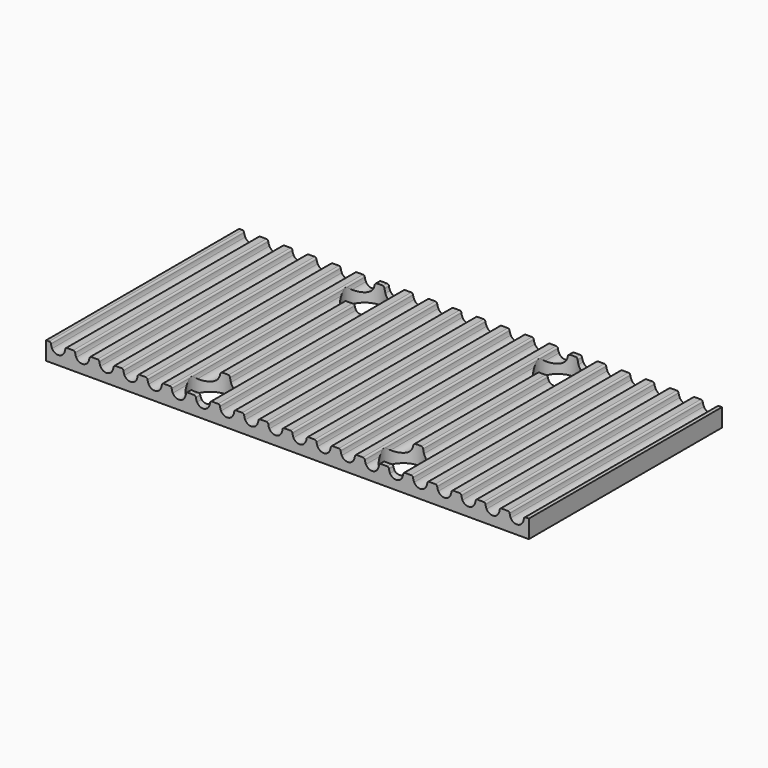
from build123d import *

# Parameters (mm, degrees)
SKETCH024_W     = 40
SKETCH024_H     = 20
PAD003_DEPTH    = 1.5
POCKET017_DEPTH = 20
SKETCH027_R     = 1.6
POCKET018_DEPTH = 1.5


with BuildPart() as part:
    # Sketch024 → Pad003 (new body)
    with BuildSketch(Plane.XY):
        Rectangle(SKETCH024_W, SKETCH024_H)
    extrude(amount=PAD003_DEPTH)

    # Sketch025 (on Face2 of Pad003) → Pocket017 (cut)
    with BuildSketch(Plane.XZ.offset(10)):
        with BuildLine():
            ThreePointArc((-19.591535, 1.370149), (-19.64149, 1.462966), (-19.740176, 1.5))
            Line((-19.740176, 1.5), (-18.259824, 1.5))
            ThreePointArc((-18.259824, 1.5), (-18.358918, 1.462607), (-18.408607, 1.36907))
            ThreePointArc((-18.500975, 1.062099), (-18.44241, 1.211859), (-18.408607, 1.36907))
            ThreePointArc((-19.498919, 1.061881), (-18.999879, 0.750058), (-18.500975, 1.062099))
            ThreePointArc((-19.591535, 1.370149), (-19.557712, 1.212264), (-19.498919, 1.061881))
        make_face()
        with BuildLine():
            ThreePointArc((-17.591536, 1.370149), (-17.64149, 1.462966), (-17.740176, 1.5))
            Line((-17.740176, 1.5), (-16.259824, 1.5))
            ThreePointArc((-16.259824, 1.5), (-16.358919, 1.462607), (-16.408607, 1.36907))
            ThreePointArc((-16.500975, 1.062099), (-16.44241, 1.211859), (-16.408607, 1.36907))
            ThreePointArc((-17.498919, 1.061881), (-16.999879, 0.750058), (-16.500975, 1.062099))
            ThreePointArc((-17.591536, 1.370149), (-17.557712, 1.212264), (-17.498919, 1.061881))
        make_face()
        with BuildLine():
            ThreePointArc((-15.591535, 1.37015), (-15.64149, 1.462967), (-15.740176, 1.5))
            Line((-15.740176, 1.5), (-14.259824, 1.5))
            ThreePointArc((-14.259824, 1.5), (-14.358919, 1.462607), (-14.408607, 1.36907))
            ThreePointArc((-14.500975, 1.062099), (-14.44241, 1.211859), (-14.408607, 1.36907))
            ThreePointArc((-15.498919, 1.061881), (-14.999879, 0.750058), (-14.500975, 1.062099))
            ThreePointArc((-15.591535, 1.37015), (-15.557712, 1.212264), (-15.498919, 1.061881))
        make_face()
        with BuildLine():
            ThreePointArc((-13.591535, 1.370149), (-13.641489, 1.462966), (-13.740175, 1.5))
            Line((-13.740175, 1.5), (-12.259823, 1.5))
            ThreePointArc((-12.259823, 1.5), (-12.358918, 1.462607), (-12.408606, 1.36907))
            ThreePointArc((-12.500974, 1.062099), (-12.44241, 1.211859), (-12.408606, 1.36907))
            ThreePointArc((-13.498918, 1.061881), (-12.999878, 0.750058), (-12.500974, 1.062099))
            ThreePointArc((-13.591535, 1.370149), (-13.557711, 1.212264), (-13.498918, 1.061881))
        make_face()
        with BuildLine():
            ThreePointArc((-11.591535, 1.370149), (-11.641489, 1.462966), (-11.740175, 1.5))
            Line((-11.740175, 1.5), (-10.259823, 1.5))
            ThreePointArc((-10.259823, 1.5), (-10.358918, 1.462607), (-10.408606, 1.36907))
            ThreePointArc((-10.500975, 1.062099), (-10.44241, 1.211859), (-10.408606, 1.36907))
            ThreePointArc((-11.498918, 1.061881), (-10.999878, 0.750058), (-10.500975, 1.062099))
            ThreePointArc((-11.591535, 1.370149), (-11.557711, 1.212264), (-11.498918, 1.061881))
        make_face()
        with BuildLine():
            ThreePointArc((-9.591535, 1.370149), (-9.64149, 1.462966), (-9.740176, 1.5))
            Line((-9.740176, 1.5), (-8.259824, 1.5))
            ThreePointArc((-8.259824, 1.5), (-8.358919, 1.462606), (-8.408607, 1.36907))
            ThreePointArc((-8.500975, 1.062098), (-8.44241, 1.211859), (-8.408607, 1.36907))
            ThreePointArc((-9.498919, 1.06188), (-8.999879, 0.750057), (-8.500975, 1.062098))
            ThreePointArc((-9.591535, 1.370149), (-9.557712, 1.212264), (-9.498919, 1.06188))
        make_face()
        with BuildLine():
            ThreePointArc((-7.591535, 1.37015), (-7.641489, 1.462967), (-7.740175, 1.5))
            Line((-7.740175, 1.5), (-6.259824, 1.5))
            ThreePointArc((-6.259824, 1.5), (-6.358919, 1.462607), (-6.408607, 1.36907))
            ThreePointArc((-6.500975, 1.062099), (-6.44241, 1.211859), (-6.408607, 1.36907))
            ThreePointArc((-7.498918, 1.061881), (-6.999878, 0.750058), (-6.500975, 1.062099))
            ThreePointArc((-7.591535, 1.37015), (-7.557711, 1.212264), (-7.498918, 1.061881))
        make_face()
        with BuildLine():
            ThreePointArc((-5.591535, 1.370149), (-5.64149, 1.462966), (-5.740176, 1.5))
            Line((-5.740176, 1.5), (-4.259824, 1.5))
            ThreePointArc((-4.259824, 1.5), (-4.358919, 1.462607), (-4.408607, 1.36907))
            ThreePointArc((-4.500975, 1.062099), (-4.44241, 1.211859), (-4.408607, 1.36907))
            ThreePointArc((-5.498919, 1.061881), (-4.999879, 0.750058), (-4.500975, 1.062099))
            ThreePointArc((-5.591535, 1.370149), (-5.557711, 1.212264), (-5.498919, 1.061881))
        make_face()
        with BuildLine():
            ThreePointArc((-3.591535, 1.370149), (-3.64149, 1.462966), (-3.740176, 1.5))
            Line((-3.740176, 1.5), (-2.259824, 1.5))
            ThreePointArc((-2.259824, 1.5), (-2.358919, 1.462607), (-2.408607, 1.36907))
            ThreePointArc((-2.500975, 1.062099), (-2.44241, 1.211859), (-2.408607, 1.36907))
            ThreePointArc((-3.498919, 1.061881), (-2.999879, 0.750058), (-2.500975, 1.062099))
            ThreePointArc((-3.591535, 1.370149), (-3.557711, 1.212264), (-3.498919, 1.061881))
        make_face()
        with BuildLine():
            ThreePointArc((-1.591535, 1.370149), (-1.64149, 1.462966), (-1.740176, 1.5))
            Line((-1.740176, 1.5), (-0.259824, 1.5))
            ThreePointArc((-0.259824, 1.5), (-0.358919, 1.462606), (-0.408607, 1.36907))
            ThreePointArc((-0.500975, 1.062098), (-0.44241, 1.211859), (-0.408607, 1.36907))
            ThreePointArc((-1.498919, 1.06188), (-0.999879, 0.750057), (-0.500975, 1.062098))
            ThreePointArc((-1.591535, 1.370149), (-1.557711, 1.212264), (-1.498919, 1.06188))
        make_face()
        with BuildLine():
            ThreePointArc((0.408465, 1.370149), (0.35851, 1.462966), (0.259824, 1.5))
            Line((0.259824, 1.5), (1.740176, 1.5))
            ThreePointArc((1.740176, 1.5), (1.641081, 1.462607), (1.591393, 1.36907))
            ThreePointArc((1.499025, 1.062099), (1.55759, 1.211859), (1.591393, 1.36907))
            ThreePointArc((0.501081, 1.061881), (1.000121, 0.750058), (1.499025, 1.062099))
            ThreePointArc((0.408465, 1.370149), (0.442288, 1.212264), (0.501081, 1.061881))
        make_face()
        with BuildLine():
            ThreePointArc((2.408465, 1.370149), (2.358511, 1.462966), (2.259825, 1.5))
            Line((2.259825, 1.5), (3.740176, 1.5))
            ThreePointArc((3.740176, 1.5), (3.641081, 1.462607), (3.591393, 1.36907))
            ThreePointArc((3.499025, 1.062099), (3.55759, 1.211859), (3.591393, 1.36907))
            ThreePointArc((2.501082, 1.061881), (3.000122, 0.750058), (3.499025, 1.062099))
            ThreePointArc((2.408465, 1.370149), (2.442289, 1.212264), (2.501082, 1.061881))
        make_face()
        with BuildLine():
            ThreePointArc((4.408465, 1.370149), (4.35851, 1.462966), (4.259824, 1.5))
            Line((4.259824, 1.5), (5.740176, 1.5))
            ThreePointArc((5.740176, 1.5), (5.641081, 1.462606), (5.591393, 1.36907))
            ThreePointArc((5.499025, 1.062098), (5.55759, 1.211859), (5.591393, 1.36907))
            ThreePointArc((4.501081, 1.06188), (5.000121, 0.750057), (5.499025, 1.062098))
            ThreePointArc((4.408465, 1.370149), (4.442288, 1.212264), (4.501081, 1.06188))
        make_face()
        with BuildLine():
            ThreePointArc((6.408465, 1.370149), (6.35851, 1.462966), (6.259824, 1.5))
            Line((6.259824, 1.5), (7.740176, 1.5))
            ThreePointArc((7.740176, 1.5), (7.641081, 1.462607), (7.591393, 1.36907))
            ThreePointArc((7.499025, 1.062099), (7.55759, 1.211859), (7.591393, 1.36907))
            ThreePointArc((6.501081, 1.061881), (7.000121, 0.750058), (7.499025, 1.062099))
            ThreePointArc((6.408465, 1.370149), (6.442288, 1.212264), (6.501081, 1.061881))
        make_face()
        with BuildLine():
            ThreePointArc((8.408466, 1.370149), (8.358511, 1.462966), (8.259825, 1.5))
            Line((8.259825, 1.5), (9.740177, 1.5))
            ThreePointArc((9.740177, 1.5), (9.641082, 1.462606), (9.591394, 1.36907))
            ThreePointArc((9.499026, 1.062098), (9.557591, 1.211859), (9.591394, 1.36907))
            ThreePointArc((8.501082, 1.06188), (9.000122, 0.750057), (9.499026, 1.062098))
            ThreePointArc((8.408466, 1.370149), (8.442289, 1.212264), (8.501082, 1.06188))
        make_face()
        with BuildLine():
            ThreePointArc((10.408465, 1.370149), (10.358511, 1.462966), (10.259825, 1.5))
            Line((10.259825, 1.5), (11.740176, 1.5))
            ThreePointArc((11.740176, 1.5), (11.641081, 1.462607), (11.591393, 1.36907))
            ThreePointArc((11.499025, 1.062099), (11.55759, 1.211859), (11.591393, 1.36907))
            ThreePointArc((10.501082, 1.061881), (11.000122, 0.750058), (11.499025, 1.062099))
            ThreePointArc((10.408465, 1.370149), (10.442289, 1.212264), (10.501082, 1.061881))
        make_face()
        with BuildLine():
            ThreePointArc((12.408465, 1.370149), (12.35851, 1.462966), (12.259824, 1.5))
            Line((12.259824, 1.5), (13.740176, 1.5))
            ThreePointArc((13.740176, 1.5), (13.641081, 1.462607), (13.591393, 1.36907))
            ThreePointArc((13.499025, 1.062099), (13.55759, 1.211859), (13.591393, 1.36907))
            ThreePointArc((12.501081, 1.061881), (13.000121, 0.750058), (13.499025, 1.062099))
            ThreePointArc((12.408465, 1.370149), (12.442289, 1.212264), (12.501081, 1.061881))
        make_face()
        with BuildLine():
            ThreePointArc((14.408466, 1.37015), (14.358511, 1.462967), (14.259825, 1.5))
            Line((14.259825, 1.5), (15.740177, 1.5))
            ThreePointArc((15.740177, 1.5), (15.641082, 1.462607), (15.591394, 1.36907))
            ThreePointArc((15.499026, 1.062099), (15.557591, 1.211859), (15.591394, 1.36907))
            ThreePointArc((14.501082, 1.061881), (15.000122, 0.750058), (15.499026, 1.062099))
            ThreePointArc((14.408466, 1.37015), (14.442289, 1.212264), (14.501082, 1.061881))
        make_face()
        with BuildLine():
            ThreePointArc((16.408465, 1.370149), (16.358511, 1.462966), (16.259825, 1.5))
            Line((16.259825, 1.5), (17.740177, 1.5))
            ThreePointArc((17.740177, 1.5), (17.641082, 1.462607), (17.591394, 1.36907))
            ThreePointArc((17.499026, 1.062099), (17.557591, 1.211859), (17.591394, 1.36907))
            ThreePointArc((16.501082, 1.061881), (17.000122, 0.750058), (17.499026, 1.062099))
            ThreePointArc((16.408465, 1.370149), (16.442289, 1.212264), (16.501082, 1.061881))
        make_face()
        with BuildLine():
            ThreePointArc((18.408465, 1.370149), (18.358511, 1.462966), (18.259825, 1.5))
            Line((18.259825, 1.5), (19.740177, 1.5))
            ThreePointArc((19.740177, 1.5), (19.641082, 1.462607), (19.591394, 1.36907))
            ThreePointArc((19.499026, 1.062099), (19.557591, 1.211859), (19.591394, 1.36907))
            ThreePointArc((18.501082, 1.061881), (19.000122, 0.750058), (19.499026, 1.062099))
            ThreePointArc((18.408465, 1.370149), (18.442289, 1.212264), (18.501082, 1.061881))
        make_face()
    extrude(amount=-POCKET017_DEPTH, mode=Mode.SUBTRACT)

    # Sketch027 (on Face4 of Pocket017) → Pocket018 (cut)
    with BuildSketch(Plane(origin=(0, 0, 0), x_dir=(1, 0, 0), z_dir=(0, 0, -1))):
        with Locations((-8, -8)):
            Circle(SKETCH027_R)
        with Locations((8, -8)):
            Circle(SKETCH027_R)
        with Locations((-8, 8)):
            Circle(SKETCH027_R)
        with Locations((8, 8)):
            Circle(SKETCH027_R)
    extrude(amount=-POCKET018_DEPTH, mode=Mode.SUBTRACT)


solid = part.part
